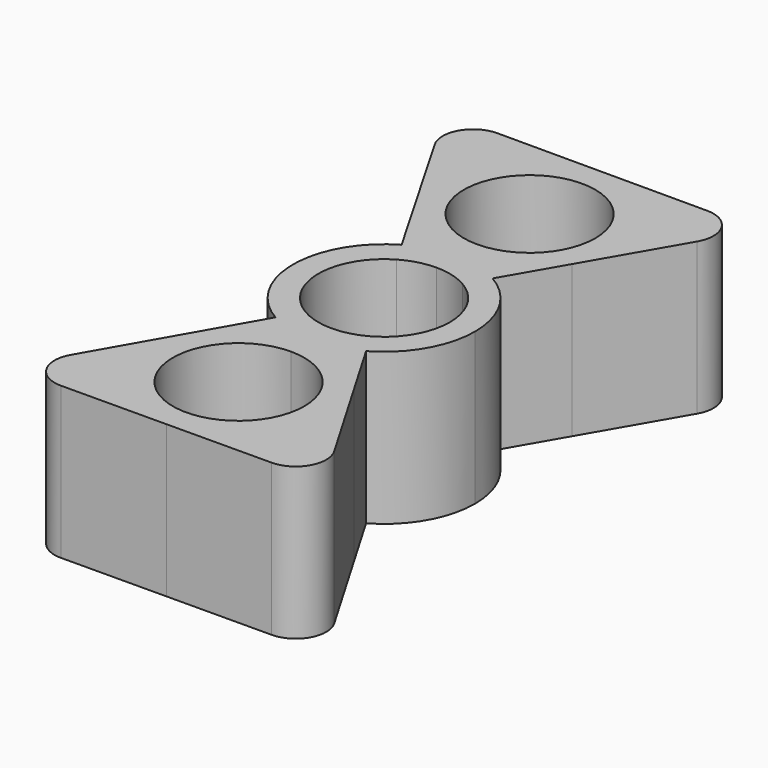
from build123d import *

# Parameters (mm, degrees)
F1_DEPTH = 25.4
F2_R     = 5.08
F3_R     = 5.08


with BuildPart() as f1:
    # F0 (on Top) → F1 (new body)
    with BuildSketch(Plane.XY):
        with BuildLine():
            Line((-26.3964543073, 45.72), (-13.1982270342, 22.8599997931))
            ThreePointArc((-13.1982270342, 22.8599997931), (-13.1982272083, 38.0999999054), (2.04e-08, 45.72))
            Line((2.04e-08, 45.72), (-26.3964543073, 45.72))
        make_face()
        with BuildLine():
            ThreePointArc((-13.1982270342, 22.8599997931), (-7.6199998966, 17.2817727866), (0, 15.24))
            ThreePointArc((0, 15.24), (7.6200000359, 17.281772867), (13.1982271951, 22.8600000717))
            ThreePointArc((13.1982271951, 22.8600000717), (14.7207096034, 26.5355977926), (15.24, 30.48))
            ThreePointArc((15.24, 30.48), (10.7763073525, 41.2563073381), (2.04e-08, 45.72))
            ThreePointArc((2.04e-08, 45.72), (-13.1982272083, 38.0999999054), (-13.1982270342, 22.8599997931))
        make_face()
        with BuildLine():
            ThreePointArc((11.0109, 30.48), (7.785882057, 22.694117943), (0, 19.4691))
            ThreePointArc((0, 19.4691), (-7.785882057, 38.265882057), (11.0109, 30.48))
        make_face(mode=Mode.SUBTRACT)
        with BuildLine():
            ThreePointArc((15.24, 30.48), (14.7207096034, 26.5355977926), (13.1982271951, 22.8600000717))
            Line((13.1982271951, 22.8600000717), (26.3964543073, 45.72))
            Line((26.3964543073, 45.72), (2.04e-08, 45.72))
            ThreePointArc((2.04e-08, 45.72), (10.7763073525, 41.2563073381), (15.24, 30.48))
        make_face()
        with BuildLine():
            ThreePointArc((0, 15.24), (3.9444022474, 14.7207095926), (7.62, 13.1982271537))
            Line((7.62, 13.1982271537), (13.1982271951, 22.8600000717))
            ThreePointArc((13.1982271951, 22.8600000717), (7.6200000359, 17.281772867), (0, 15.24))
        make_face()
        with BuildLine():
            ThreePointArc((-7.62, 13.1982271537), (-3.9444022474, 14.7207095926), (0, 15.24))
            ThreePointArc((0, 15.24), (-7.6199998966, 17.2817727866), (-13.1982270342, 22.8599997931))
            Line((-13.1982270342, 22.8599997931), (-7.62, 13.1982271537))
        make_face()
        with BuildLine():
            ThreePointArc((-5.50545, 9.5357191185), (-2.8498306237, 10.6357126807), (0, 11.0109))
            Line((0, 11.0109), (0, 15.24))
            ThreePointArc((0, 15.24), (-3.9444022474, 14.7207095926), (-7.62, 13.1982271537))
            Line((-7.62, 13.1982271537), (-5.50545, 9.5357191185))
        make_face()
        with BuildLine():
            ThreePointArc((0, 11.0109), (2.8498306237, 10.6357126807), (5.50545, 9.5357191185))
            Line((5.50545, 9.5357191185), (7.62, 13.1982271537))
            ThreePointArc((7.62, 13.1982271537), (3.9444022474, 14.7207095926), (0, 15.24))
            Line((0, 15.24), (0, 11.0109))
        make_face()
        with BuildLine():
            ThreePointArc((-5.5776126233, -9.4936903381), (-11.0108208297, 0.0417548278), (-5.50545, 9.5357191185))
            Line((-5.50545, 9.5357191185), (-7.62, 13.1982271537))
            ThreePointArc((-7.62, 13.1982271537), (-15.2399698636, 0.030307715), (-7.6724341256, -13.1678151031))
            Line((-7.6724341256, -13.1678151031), (-5.5776126233, -9.4936903381))
        make_face()
        with BuildLine():
            Line((0, -15.24), (0, -11.0109))
            ThreePointArc((0, -11.0109), (-2.8901421995, -10.6248292634), (-5.5776126233, -9.4936903381))
            Line((-5.5776126233, -9.4936903381), (-7.6724341256, -13.1678151031))
            ThreePointArc((-7.6724341256, -13.1678151031), (-3.9736694521, -14.7128362692), (0, -15.24))
        make_face()
        with BuildLine():
            Line((7.5678329537, -13.2282086612), (5.4333591334, -9.5769790298))
            ThreePointArc((5.4333591334, -9.5769790298), (2.8096939701, -10.6463861758), (0, -11.0109))
            Line((0, -11.0109), (0, -15.24))
            ThreePointArc((0, -15.24), (3.9153352349, -14.7284673337), (7.5678329537, -13.2282086612))
        make_face()
        with BuildLine():
            ThreePointArc((5.50545, 9.5357191185), (9.5357191185, 5.50545), (11.0109, 0))
            ThreePointArc((11.0109, 0), (9.5148855193, -5.5413782008), (5.4333591334, -9.5769790298))
            Line((5.4333591334, -9.5769790298), (7.5678329537, -13.2282086612))
            ThreePointArc((7.5678329537, -13.2282086612), (13.1831592233, -7.6460390329), (15.24, 0))
            ThreePointArc((15.24, 0), (13.1982271537, 7.62), (7.62, 13.1982271537))
            Line((7.62, 13.1982271537), (5.50545, 9.5357191185))
        make_face()
        with BuildLine():
            ThreePointArc((13.1567863006, -22.7886688902), (7.5842505855, -17.2611973668), (0, -15.24))
            ThreePointArc((0, -15.24), (-7.6556936027, -17.302445012), (-13.2392812888, -22.9315544013))
            ThreePointArc((-13.2392812888, -22.9315544013), (-13.1567861593, -38.1713313515), (0.0824955225, -45.7197767204))
            ThreePointArc((0.0824955225, -45.7197767204), (10.8054345531, -41.2271011961), (15.24, -30.48))
            ThreePointArc((15.24, -30.48), (14.7099800003, -26.4957700381), (13.1567863006, -22.7886688902))
        make_face()
        with BuildLine():
            ThreePointArc((11.0109, -30.48), (-7.785882057, -38.265882057), (0, -19.4691))
            ThreePointArc((0, -19.4691), (7.785882057, -22.694117943), (11.0109, -30.48))
        make_face(mode=Mode.SUBTRACT)
        with BuildLine():
            ThreePointArc((-13.2392812888, -22.9315544013), (-7.6556936027, -17.302445012), (0, -15.24))
            ThreePointArc((0, -15.24), (-3.9736694521, -14.7128362692), (-7.6724341256, -13.1678151031))
            Line((-7.6724341256, -13.1678151031), (-13.2392812888, -22.9315544013))
        make_face()
        with BuildLine():
            Line((13.1567863006, -22.7886688902), (7.5678329537, -13.2282086612))
            ThreePointArc((7.5678329537, -13.2282086612), (3.9153352349, -14.7284673337), (0, -15.24))
            ThreePointArc((0, -15.24), (7.5842505855, -17.2611973668), (13.1567863006, -22.7886688902))
        make_face()
        with BuildLine():
            Line((26.4785625289, -45.5768912828), (13.1567863006, -22.7886688902))
            ThreePointArc((13.1567863006, -22.7886688902), (14.7099800003, -26.4957700381), (15.24, -30.48))
            ThreePointArc((15.24, -30.48), (10.8054345531, -41.2271011961), (0.0824955225, -45.7197767204))
            Line((0.0824955225, -45.7197767204), (26.4785625289, -45.5768912828))
        make_face()
        with BuildLine():
            ThreePointArc((0.0824955225, -45.7197767204), (-13.1567861593, -38.1713313515), (-13.2392812888, -22.9315544013))
            Line((-13.2392812888, -22.9315544013), (-26.3135726335, -45.8626621643))
            Line((-26.3135726335, -45.8626621643), (0.0824955225, -45.7197767204))
        make_face()
    extrude(amount=F1_DEPTH)

    # F2
    f2_edges = [f1.edges().sort_by_distance(p)[0] for p in [
        (26.396454, 45.72, 12.7),
        (26.478563, -45.576891, 12.7),
        (-26.313573, -45.862662, 12.7),
    ]]
    fillet(f2_edges, radius=F2_R)

    # F3
    f3_edges = [f1.edges().sort_by_distance(p)[0] for p in [
        (-26.396454, 45.72, 12.7),
    ]]
    fillet(f3_edges, radius=F3_R)


solid = f1.part
